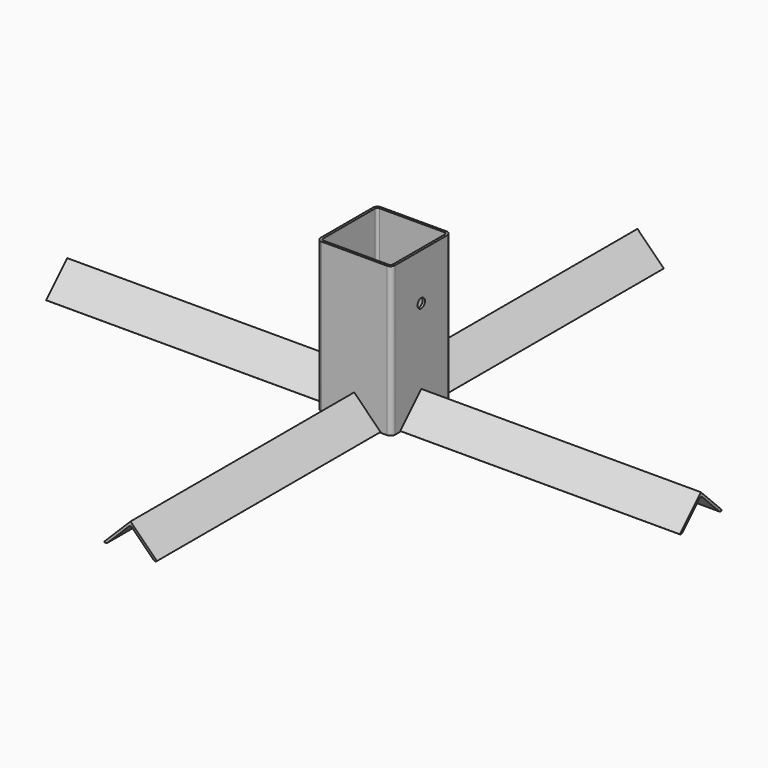
from build123d import *

# Parameters (mm, degrees)
F1_DEPTH  = 203.2
F3_D      = 12.7
F8_DEPTH  = 381
F9_DEPTH  = 381
F10_DEPTH = 381
F11_DEPTH = 381


with BuildPart() as f1:
    # F0 (on Top) → F1 (new body)
    with BuildSketch(Plane.XY):
        with BuildLine():
            ThreePointArc((50.8, 44.45), (48.940128, 48.940128), (44.45, 50.8))
            Line((44.45, 50.8), (-44.45, 50.8))
            ThreePointArc((-44.45, 50.8), (-48.940128, 48.940128), (-50.8, 44.45))
            Line((-50.8, 44.45), (-50.8, -44.45))
            ThreePointArc((-50.8, -44.45), (-48.940128, -48.940128), (-44.45, -50.8))
            Line((-44.45, -50.8), (44.45, -50.8))
            ThreePointArc((44.45, -50.8), (48.940128, -48.940128), (50.8, -44.45))
            Line((50.8, -44.45), (50.8, 44.45))
        make_face()
        with BuildLine():
            ThreePointArc((44.45, 47.625), (46.695064, 46.695064), (47.625, 44.45))
            Line((47.625, 44.45), (47.625, -44.45))
            ThreePointArc((47.625, -44.45), (46.695064, -46.695064), (44.45, -47.625))
            Line((44.45, -47.625), (-44.45, -47.625))
            ThreePointArc((-44.45, -47.625), (-46.695064, -46.695064), (-47.625, -44.45))
            Line((-47.625, -44.45), (-47.625, 44.45))
            ThreePointArc((-47.625, 44.45), (-46.695064, 46.695064), (-44.45, 47.625))
            Line((-44.45, 47.625), (44.45, 47.625))
        make_face(mode=Mode.SUBTRACT)
    extrude(amount=F1_DEPTH)

    # F3 (through all)
    with Locations(Plane(origin=(-50.8, 0, 0), x_dir=(0, -1, 0), z_dir=(-1, 0, 0))):
        with Locations((0, 139.7)):
            Hole(F3_D / 2)

    # F7 (on face) → F8 (join)
    with BuildSketch(Plane.XZ.offset(50.8)):
        with BuildLine():
            Line((-31.430896, 0.929936), (-2.245064, 30.115768))
            ThreePointArc((-2.245064, 30.115768), (0, 31.045704), (2.245064, 30.115768))
            Line((2.245064, 30.115768), (31.430896, 0.929936))
            ThreePointArc((31.430896, 0.929936), (33.67596, 0), (35.921024, 0.929936))
            Line((35.921024, 0.929936), (0, 36.85096))
            Line((0, 36.85096), (-35.921024, 0.929936))
            ThreePointArc((-35.921024, 0.929936), (-33.67596, 0), (-31.430896, 0.929936))
        make_face()
    extrude(amount=F8_DEPTH)

    # F4 (on face) → F9 (join)
    with BuildSketch(Plane.YZ.offset(50.8)):
        with BuildLine():
            Line((35.921024, 0.929936), (0, 36.85096))
            Line((0, 36.85096), (-35.921024, 0.929936))
            ThreePointArc((-35.921024, 0.929936), (-34.89098, 0.241682), (-33.67596, 0))
            ThreePointArc((-33.67596, 0), (-32.460941, 0.241682), (-31.430896, 0.929936))
            Line((-31.430896, 0.929936), (-2.245064, 30.115768))
            ThreePointArc((-2.245064, 30.115768), (0, 31.045704), (2.245064, 30.115768))
            Line((2.245064, 30.115768), (31.430896, 0.929936))
            ThreePointArc((31.430896, 0.929936), (32.460941, 0.241682), (33.67596, 0))
            ThreePointArc((33.67596, 0), (34.89098, 0.241682), (35.921024, 0.929936))
        make_face()
    extrude(amount=F9_DEPTH)

    # F5 (on face) → F10 (join)
    with BuildSketch(Plane(origin=(0, 50.8, 0), x_dir=(-1, 0, 0), z_dir=(0, 1, 0))):
        with BuildLine():
            Line((35.921024, 0.929936), (0, 36.85096))
            Line((0, 36.85096), (-35.921024, 0.929936))
            ThreePointArc((-35.921024, 0.929936), (-34.89098, 0.241682), (-33.67596, 0))
            ThreePointArc((-33.67596, 0), (-32.460941, 0.241682), (-31.430896, 0.929936))
            Line((-31.430896, 0.929936), (-2.245064, 30.115768))
            ThreePointArc((-2.245064, 30.115768), (0, 31.045704), (2.245064, 30.115768))
            Line((2.245064, 30.115768), (31.430896, 0.929936))
            ThreePointArc((31.430896, 0.929936), (32.460941, 0.241682), (33.67596, 0))
            ThreePointArc((33.67596, 0), (34.89098, 0.241682), (35.921024, 0.929936))
        make_face()
    extrude(amount=F10_DEPTH)

    # F6 (on face) → F11 (join)
    with BuildSketch(Plane(origin=(-50.8, 0, 0), x_dir=(0, -1, 0), z_dir=(-1, 0, 0))):
        with BuildLine():
            Line((-31.430896, 0.929936), (-2.245064, 30.115768))
            ThreePointArc((-2.245064, 30.115768), (0, 31.045704), (2.245064, 30.115768))
            Line((2.245064, 30.115768), (31.430896, 0.929936))
            ThreePointArc((31.430896, 0.929936), (32.460941, 0.241682), (33.67596, 0))
            ThreePointArc((33.67596, 0), (34.89098, 0.241682), (35.921024, 0.929936))
            Line((35.921024, 0.929936), (0, 36.85096))
            Line((0, 36.85096), (-35.921024, 0.929936))
            ThreePointArc((-35.921024, 0.929936), (-34.89098, 0.241682), (-33.67596, 0))
            ThreePointArc((-33.67596, 0), (-32.460941, 0.241682), (-31.430896, 0.929936))
        make_face()
    extrude(amount=F11_DEPTH)


solid = f1.part
